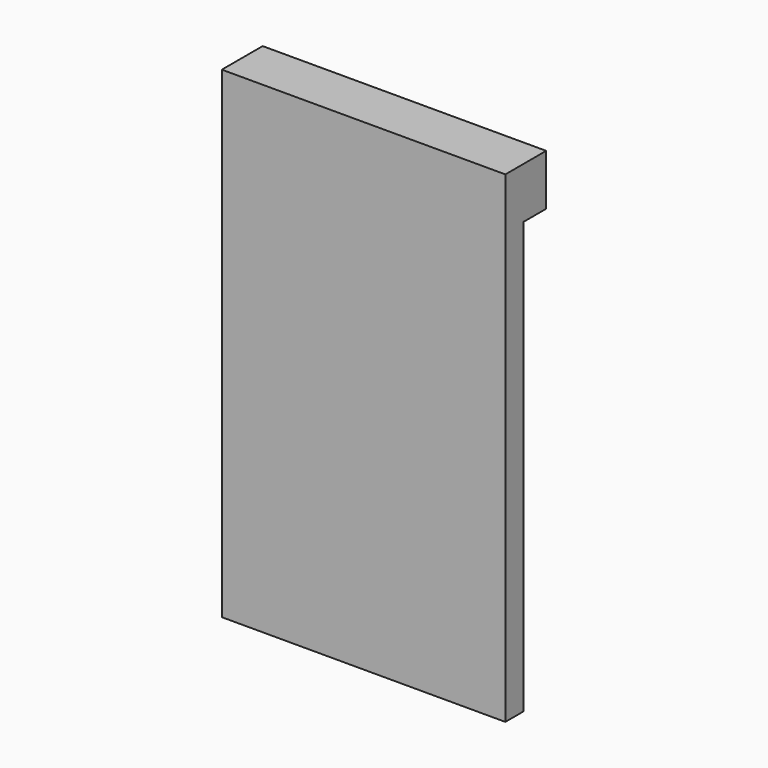
from build123d import *

# Parameters (mm, degrees)
BOX022_W     = 10
BOX022_H     = 1.8
BOX022_DEPTH = 1.8
BOX023_W     = 10
BOX023_H     = 0.8
BOX023_DEPTH = 17


with BuildPart() as cube022:
    # Box022 → Box022 (new body)
    with BuildSketch(Plane.XY.offset(15.2)):
        with Locations((5, 0.9)):
            Rectangle(BOX022_W, BOX022_H)
    extrude(amount=BOX022_DEPTH)


with BuildPart() as fusion006002004:
    # Box023 → Box023 (new body)
    with BuildSketch(Plane.XY):
        with Locations((5, 0.4)):
            Rectangle(BOX023_W, BOX023_H)
    extrude(amount=BOX023_DEPTH)

    # Fusion006002004: union Cube022
    add(cube022.part)


solid = fusion006002004.part
